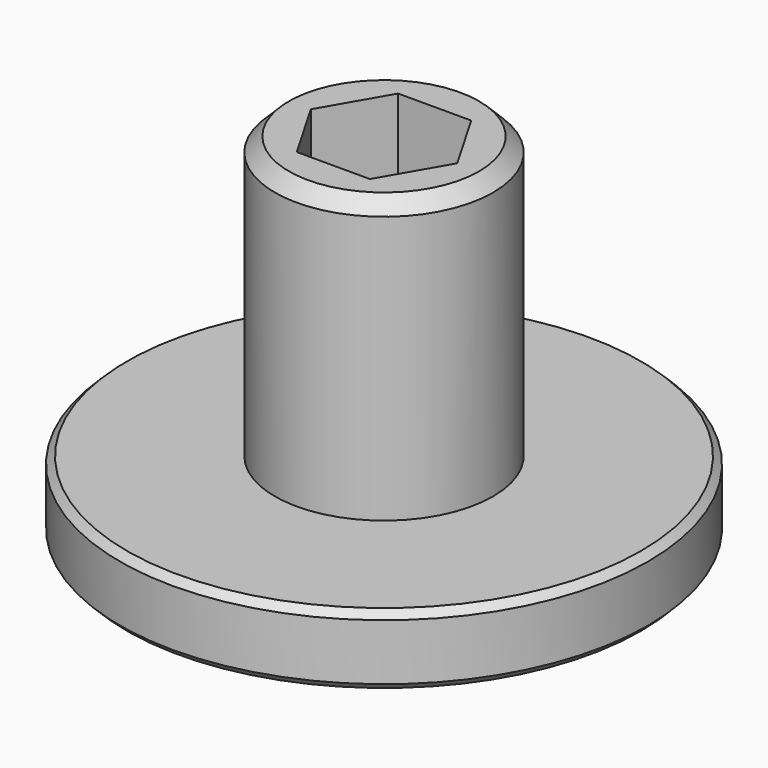
from build123d import *

# Parameters (mm, degrees)
F0_R     = 18.75
F1_DEPTH = 5
F2_R     = 7.75
F3_DEPTH = 20
F4_SIZE  = 0.5
F5_SIZE  = 1


with BuildPart() as f1:
    # F0 (on Top) → F1 (new body)
    with BuildSketch(Plane.XY):
        Circle(F0_R)
        Polygon((2.598076, 4.5), (5.196152, 0), (2.598076, -4.5), (-2.598076, -4.5), (-5.196152, 0), (-2.598076, 4.5), align=None, mode=Mode.SUBTRACT)
    extrude(amount=F1_DEPTH)

    # F2 (on face) → F3 (join)
    with BuildSketch(Plane.XY.offset(5)):
        Circle(F2_R)
        Polygon((-2.598076, -4.5), (-5.196152, 0), (-2.598076, 4.5), (2.598076, 4.5), (5.196152, 0), (2.598076, -4.5), align=None, mode=Mode.SUBTRACT)
    extrude(amount=F3_DEPTH)

    # F4
    f4_edges = [f1.edges().sort_by_distance(p)[0] for p in [
        (-18.75, 0, 0),
        (-18.75, 0, 5),
    ]]
    chamfer(f4_edges, length=F4_SIZE)

    # F5
    f5_edges = [f1.edges().sort_by_distance(p)[0] for p in [
        (-7.75, 0, 25),
    ]]
    chamfer(f5_edges, length=F5_SIZE)


solid = f1.part
